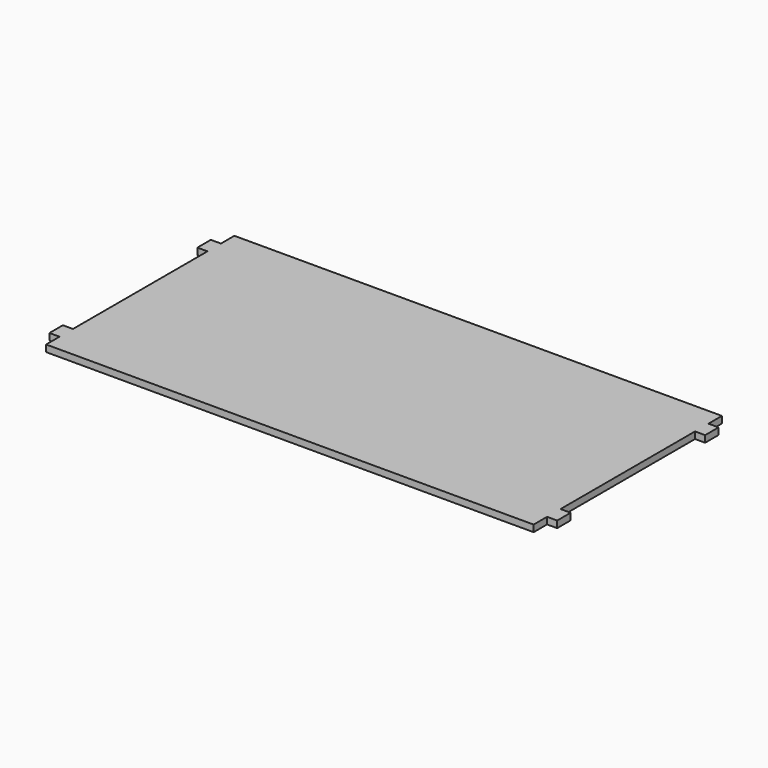
from build123d import *

# Parameters (mm, degrees)
F0_W     = 145
F0_H     = 70
F1_DEPTH = 2
F2_W     = 5
F2_H     = 2
F3_DEPTH = 3
F4_W     = 5
F4_H     = 2
F5_DEPTH = 3


with BuildPart() as f1:
    # F0 (on Top) → F1 (new body)
    with BuildSketch(Plane.XY):
        with Locations((-24.19392, -13.970558)):
            Rectangle(F0_W, F0_H)
    extrude(amount=F1_DEPTH)

    # F2 (on face) → F3 (join)
    with BuildSketch(Plane(origin=(-96.69392, 0, 0), x_dir=(0, -1, 0), z_dir=(-1, 0, 0))):
        with Locations((-13.529442, 1)):
            Rectangle(F2_W, F2_H)
        with Locations((41.470558, 1)):
            Rectangle(F2_W, F2_H)
    extrude(amount=F3_DEPTH)

    # F4 (on face) → F5 (join)
    with BuildSketch(Plane.YZ.offset(48.30608)):
        with Locations((13.529442, 1)):
            Rectangle(F4_W, F4_H)
        with Locations((-41.470558, 1)):
            Rectangle(F4_W, F4_H)
    extrude(amount=F5_DEPTH)


solid = f1.part
